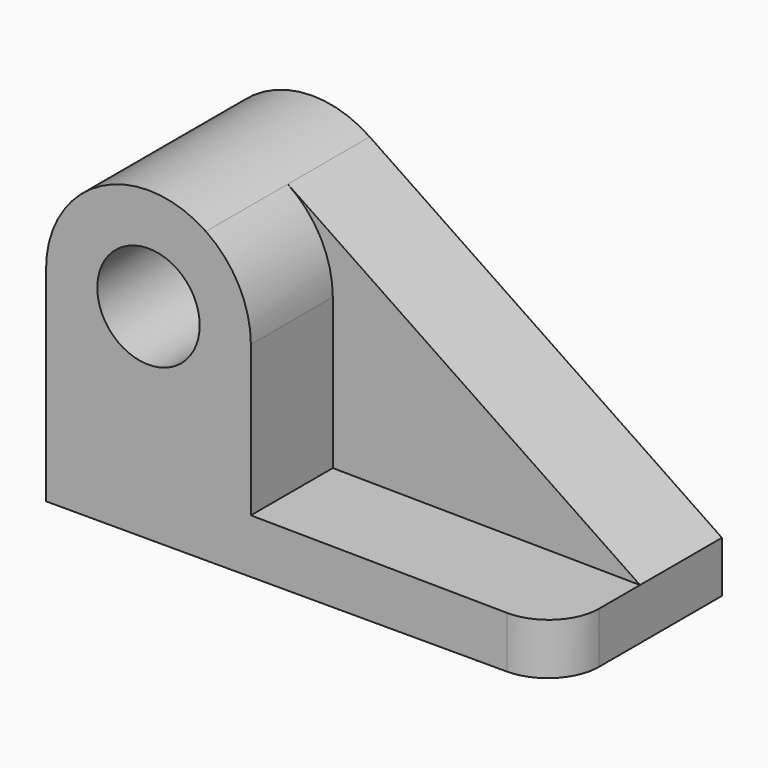
from build123d import *

# Parameters (mm, degrees)
F0_R     = 12.7
F1_DEPTH = 25.4
F3_DEPTH = 25.4
F4_R     = 12.7


with BuildPart() as f1:
    # F0 (on Front) → F1 (new body)
    with BuildSketch(Plane.XZ):
        with BuildLine():
            Line((44.0387030303, 9.6043962192), (-43.3234238415, 68.7387245609))
            ThreePointArc((-43.3234238415, 68.7387245609), (-69.4675563013, 70.1409955321), (-82.9612969697, 47.7043962192))
            Line((-82.9612969697, 47.7043962192), (-82.9612969697, -3.0956037808))
            Line((-82.9612969697, -3.0956037808), (44.0387030303, -3.0956037808))
            Line((44.0387030303, -3.0956037808), (44.0387030303, 9.6043962192))
        make_face()
        with Locations((-57.5612969697, 47.7043962192)):
            Circle(F0_R, mode=Mode.SUBTRACT)
    extrude(amount=F1_DEPTH)

    # F2 (on face) → F3 (join)
    with BuildSketch(Plane.XZ.offset(25.4)):
        with BuildLine():
            Line((44.0387030303, -3.0956037808), (44.0387030303, 9.6043962192))
            Line((44.0387030303, 9.6043962192), (-32.1612969697, 10.3719634618))
            Line((-32.1612969697, 10.3719634618), (-32.1612969697, 47.7043962192))
            ThreePointArc((-32.1612969697, 47.7043962192), (-35.1246976568, 59.6106555508), (-43.3234238415, 68.7387245609))
            ThreePointArc((-43.3234238415, 68.7387245609), (-69.4675563013, 70.1409955321), (-82.9612969697, 47.7043962192))
            Line((-82.9612969697, 47.7043962192), (-82.9612969697, -3.0956037808))
            Line((-82.9612969697, -3.0956037808), (44.0387030303, -3.0956037808))
        make_face()
        with BuildLine():
            ThreePointArc((-70.2612969697, 47.7043962192), (-57.5612969697, 60.4043962192), (-44.8612969697, 47.7043962192))
            ThreePointArc((-44.8612969697, 47.7043962192), (-57.5612969697, 35.0043962192), (-70.2612969697, 47.7043962192))
        make_face(mode=Mode.SUBTRACT)
    extrude(amount=F3_DEPTH)

    # F4
    f4_edges = [f1.edges().sort_by_distance(p)[0] for p in [
        (44.038703, -50.8, 3.254396),
    ]]
    fillet(f4_edges, radius=F4_R)


solid = f1.part
